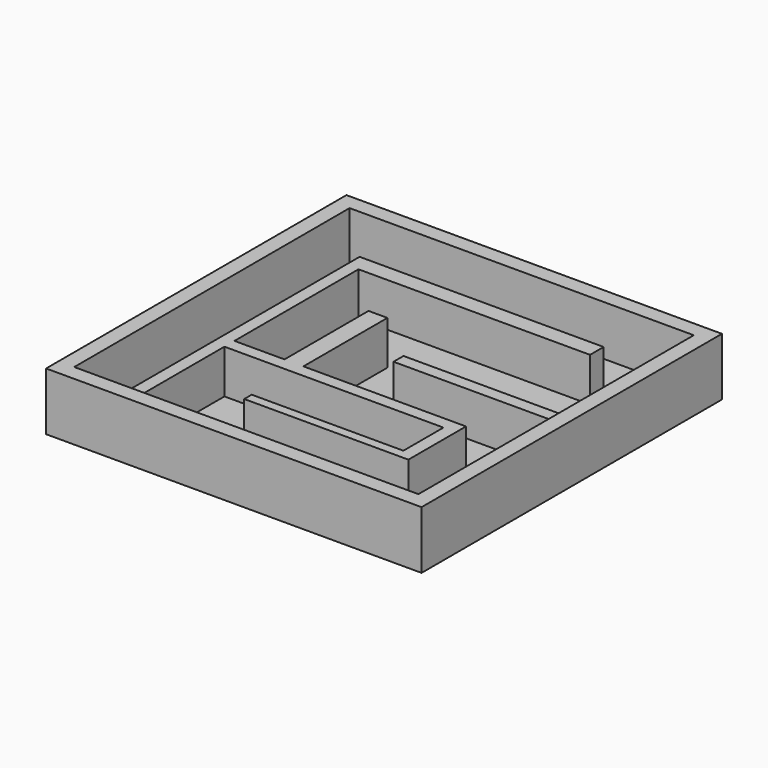
from build123d import *

# Parameters (mm, degrees)
F0_W     = 38.1
F0_H     = 38.1
F1_DEPTH = 0.79375
F2_W     = 38.1
F2_H     = 38.1
F2_W_2   = 34.925
F2_H_2   = 34.925
F3_DEPTH = 5.08
F4_W     = 23.495
F4_H     = 1.7271855524
F4_W_2   = 1.9184793842
F4_H_2   = 10.6553144476
F4_W_3   = 16.4965206158
F4_H_3   = 1.27
F4_W_4   = 15.3910815895
F4_H_4   = 0.9525
F5_DEPTH = 4.445
F4_R     = 1.27
F6_DEPTH = 0.396875


with BuildPart() as f1:
    # F0 (on Top) → F1 (new body)
    with BuildSketch(Plane.XY):
        with Locations((-5.3514037281, -3.4365521467)):
            Rectangle(F0_W, F0_H)
    extrude(amount=F1_DEPTH)

    # F2 (on face) → F3 (join)
    with BuildSketch(Plane.XY.offset(0.79375)):
        with Locations((-5.3514037281, -3.4365521467)):
            Rectangle(F2_W, F2_H)
        with Locations((-5.3514037281, -3.4365521467)):
            Rectangle(F2_W_2, F2_H_2, mode=Mode.SUBTRACT)
    extrude(amount=F3_DEPTH)

    # F4 (on face) → F5 (join)
    with BuildSketch(Plane.XY.offset(0.79375)):
        Polygon((-17.7339037281, 8.9459478533), (-17.7339037281, -20.8990521467), (-16.4639037281, -20.8990521467), (-16.4639037281, -9.7865521467), (-16.4639037281, -8.5165521467), (-16.4639037281, 7.2187623009), (-16.4639037281, 8.9459478533), align=None)
        with Locations((-4.7164037281, 8.0823550771)):
            Rectangle(F4_W, F4_H)
        with Locations((-10.424664036, -3.1888949229)):
            Rectangle(F4_W_2, F4_H_2)
        Polygon((-16.4639037281, -8.5165521467), (-16.4639037281, -9.7865521467), (-9.4654243439, -9.7865521467), (-9.4654243439, -8.5165521467), (-11.3839037281, -8.5165521467), align=None)
        Polygon((-9.4654243439, -8.5165521467), (-9.4654243439, -9.7865521467), (5.7610962719, -9.7865521467), (7.0310962719, -9.7865521467), (7.0310962719, -8.5165521467), align=None)
        with Locations((3.862835964, -2.8015521467)):
            Rectangle(F4_W_3, F4_H_3)
        Polygon((7.0310962719, -9.7865521467), (5.7610962719, -9.7865521467), (5.7610962719, -14.8665521467), (5.7610962719, -15.8190521467), (7.0310962719, -15.8190521467), align=None)
        with Locations((-1.9344445229, -15.3428021467)):
            Rectangle(F4_W_4, F4_H_4)
    extrude(amount=F5_DEPTH)

    # F4 (on face) → F6 (cut)
    with BuildSketch(Plane.XY.offset(0.79375)):
        with Locations((-20.5732807517, -14.9969505146)):
            Circle(F4_R)
        with Locations((-14.5668098703, -18.4527281672)):
            Circle(F4_R)
    extrude(amount=-F6_DEPTH, mode=Mode.SUBTRACT)


solid = f1.part
